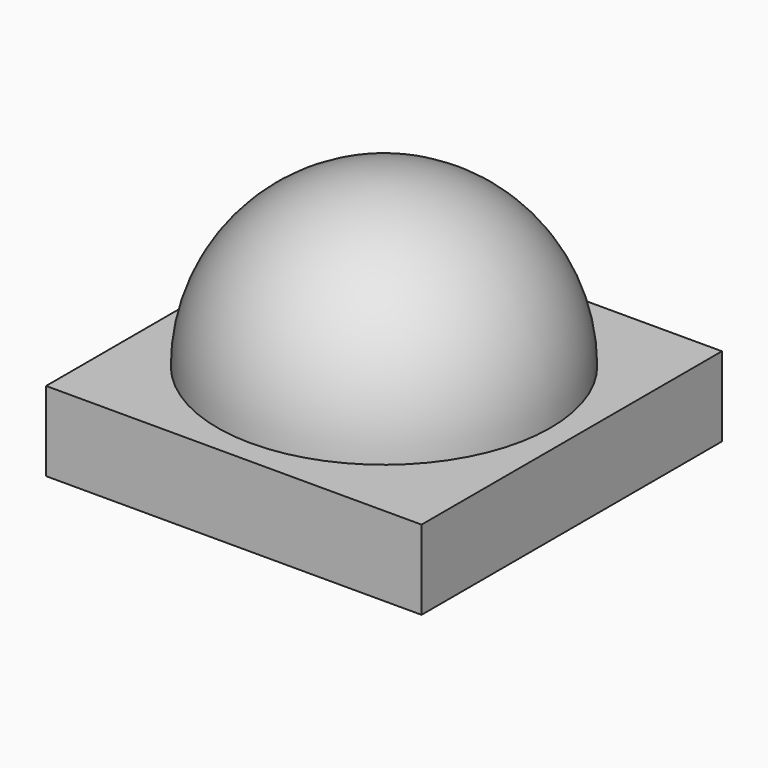
from build123d import *

# Parameters (mm, degrees)
F0_W     = 3.45
F0_H     = 3.45
F1_DEPTH = 0.73


with BuildPart() as f1:
    # F0 (on Top) → F1 (new body)
    with BuildSketch(Plane.XY):
        Rectangle(F0_W, F0_H)
    extrude(amount=F1_DEPTH)


with BuildPart() as f4:
    # F3 (on Front) → F4 (revolve)
    with BuildSketch(Plane.XZ):
        with BuildLine():
            Line((0, 2.26), (0, 0.7482266519))
            Line((0, 0.7482266519), (1.53, 0.7482266519))
            ThreePointArc((1.53, 0.7482266519), (1.0818733752, 1.8301000271), (0, 2.2782266519))
            Line((0, 2.2782266519), (0, 2.26))
        make_face()
    revolve(axis=Axis((0, 0, 0.73), (0, 0, 1)))


solid = Compound([f1.part, f4.part])
